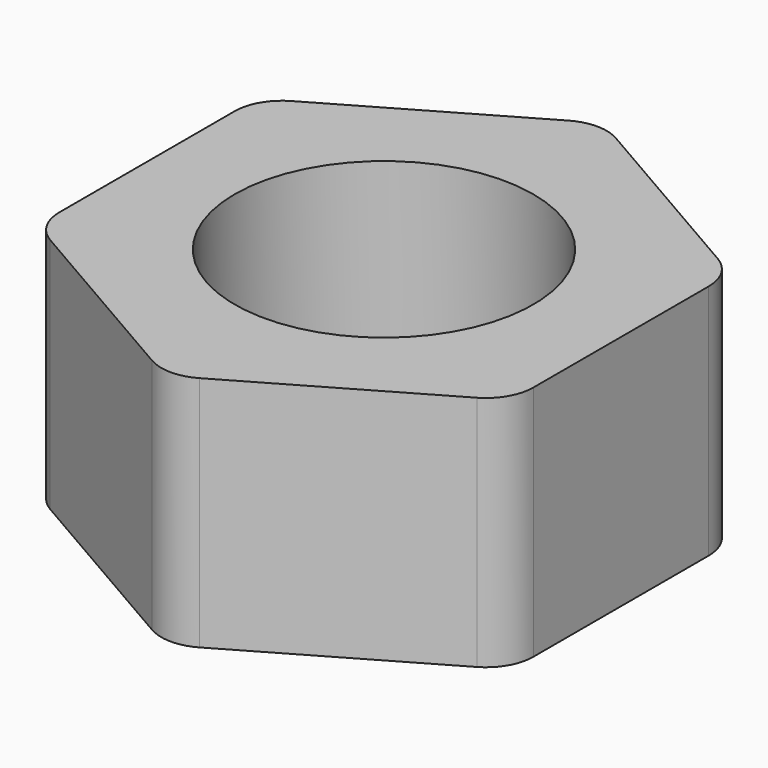
from build123d import *

# Parameters (mm, degrees)
F1_DEPTH = 5
F2_D     = 6.3
F3_R     = 1


with BuildPart() as f1:
    # F0 (on Top) → F1 (new body)
    with BuildSketch(Plane.XY):
        Polygon((5.0011666315, 2.8847297373), (0.0023340802, 5.7735022201), (-4.9988325513, 2.8887724828), (-5.0011666315, -2.8847297373), (-0.0023340802, -5.7735022201), (4.9988325513, -2.8887724828), align=None)
    extrude(amount=F1_DEPTH)

    # F2 (through all)
    with Locations(Plane(origin=(0, 0, 0), x_dir=(1, 0, 0), z_dir=(0, 0, -1))):
        with Locations((0, 0)):
            Hole(F2_D / 2)

    # F3
    f3_edges = [f1.edges().sort_by_distance(p)[0] for p in [
        (-0.002334, -5.773502, 2.5),
        (4.998833, -2.888772, 2.5),
        (5.001167, 2.88473, 2.5),
        (0.002334, 5.773502, 2.5),
        (-4.998833, 2.888772, 2.5),
        (-5.001167, -2.88473, 2.5),
    ]]
    fillet(f3_edges, radius=F3_R)


solid = f1.part
